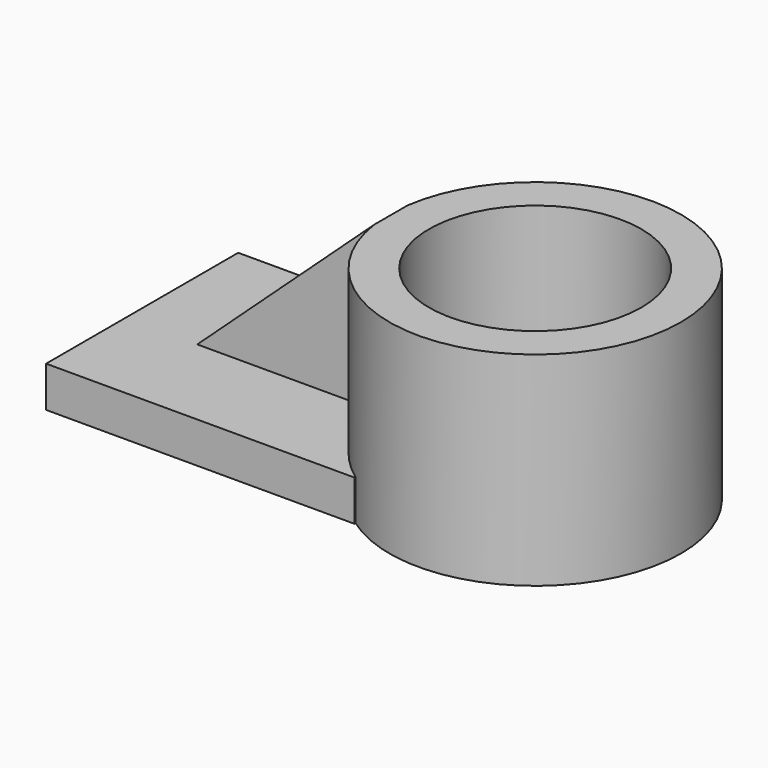
from build123d import *

# Parameters (mm, degrees)
F1_DEPTH = 10.16
F0_R     = 26.4895980544
F2_DEPTH = 50.8
F3_W     = 45.2943015844
F3_H     = 10.4296095669
F4_DEPTH = 40.64
F6_DEPTH = 41.5868318139


with BuildPart() as f1:
    # F0 (on Top) → F1 (new body)
    with BuildSketch(Plane.XY):
        with BuildLine():
            Line((-38.4405590594, 29.9478769302), (-38.4405590594, -29.9478769302))
            Line((-38.4405590594, -29.9478769302), (38.4405590594, -29.9478769302))
            Line((38.4405590594, -29.9478769302), (38.4405590594, -29.5841870222))
            ThreePointArc((38.4405590594, -29.5841870222), (23.2267408591, 0), (38.4405590594, 29.5841870222))
            Line((38.4405590594, 29.5841870222), (38.4405590594, 29.9478769302))
            Line((38.4405590594, 29.9478769302), (-38.4405590594, 29.9478769302))
        make_face()
    extrude(amount=F1_DEPTH)

    # F0 (on Top) → F2 (join)
    with BuildSketch(Plane.XY):
        with BuildLine():
            ThreePointArc((38.4405590594, 29.5841870222), (23.2267408591, 0), (38.4405590594, -29.5841870222))
            ThreePointArc((38.4405590594, -29.5841870222), (76.2312009837, -32.3447137991), (95.9687949199, 0))
            ThreePointArc((95.9687949199, 0), (76.2312009837, 32.3447137991), (38.4405590594, 29.5841870222))
        make_face()
        with Locations((59.5977678895, 0)):
            Circle(F0_R, mode=Mode.SUBTRACT)
    extrude(amount=F2_DEPTH)

    # F3 (on face) → F4 (join)
    with BuildSketch(Plane.XY.offset(10.16)):
        with Locations((2.1366886795, 0)):
            Rectangle(F3_W, F3_H)
    extrude(amount=F4_DEPTH)

    # F5 (on face) → F6 (cut, through all)
    with BuildSketch(Plane.XZ.offset(5.2148047835)):
        Polygon((-20.5104621127, 50.8), (-20.5104621127, 10.16), (23.6025262829, 50.8), align=None)
    extrude(amount=-F6_DEPTH, mode=Mode.SUBTRACT)


solid = f1.part
